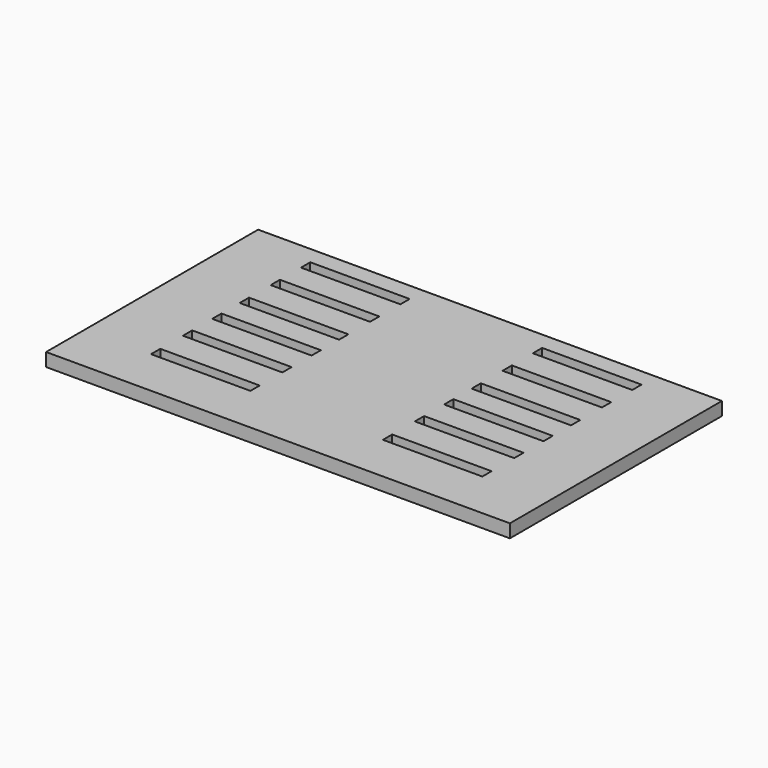
from build123d import *

# Parameters (mm, degrees)
F0_W     = 177.8
F0_H     = 101.6
F0_W_2   = 38.1
F0_H_2   = 4.445
F1_DEPTH = 5.08


with BuildPart() as f1:
    # F0 (on Top) → F1 (new body)
    with BuildSketch(Plane.XY):
        Rectangle(F0_W, F0_H)
        with Locations((-44.450002, -30.04963)):
            Rectangle(F0_W_2, F0_H_2, mode=Mode.SUBTRACT)
        with Locations((-44.450002, -14.750692)):
            Rectangle(F0_W_2, F0_H_2, mode=Mode.SUBTRACT)
        with Locations((-44.450002, -0.730829)):
            Rectangle(F0_W_2, F0_H_2, mode=Mode.SUBTRACT)
        with Locations((44.450002, -30.04963)):
            Rectangle(F0_W_2, F0_H_2, mode=Mode.SUBTRACT)
        with Locations((44.450002, -14.750692)):
            Rectangle(F0_W_2, F0_H_2, mode=Mode.SUBTRACT)
        with Locations((44.450002, -0.730829)):
            Rectangle(F0_W_2, F0_H_2, mode=Mode.SUBTRACT)
        with Locations((-44.450002, 12.452926)):
            Rectangle(F0_W_2, F0_H_2, mode=Mode.SUBTRACT)
        with Locations((-44.450002, 27.284824)):
            Rectangle(F0_W_2, F0_H_2, mode=Mode.SUBTRACT)
        with Locations((-44.45, 41.809569)):
            Rectangle(F0_W_2, F0_H_2, mode=Mode.SUBTRACT)
        with Locations((44.450002, 12.452926)):
            Rectangle(F0_W_2, F0_H_2, mode=Mode.SUBTRACT)
        with Locations((44.450002, 27.284824)):
            Rectangle(F0_W_2, F0_H_2, mode=Mode.SUBTRACT)
        with Locations((44.45, 41.809569)):
            Rectangle(F0_W_2, F0_H_2, mode=Mode.SUBTRACT)
    extrude(amount=F1_DEPTH)


solid = f1.part
